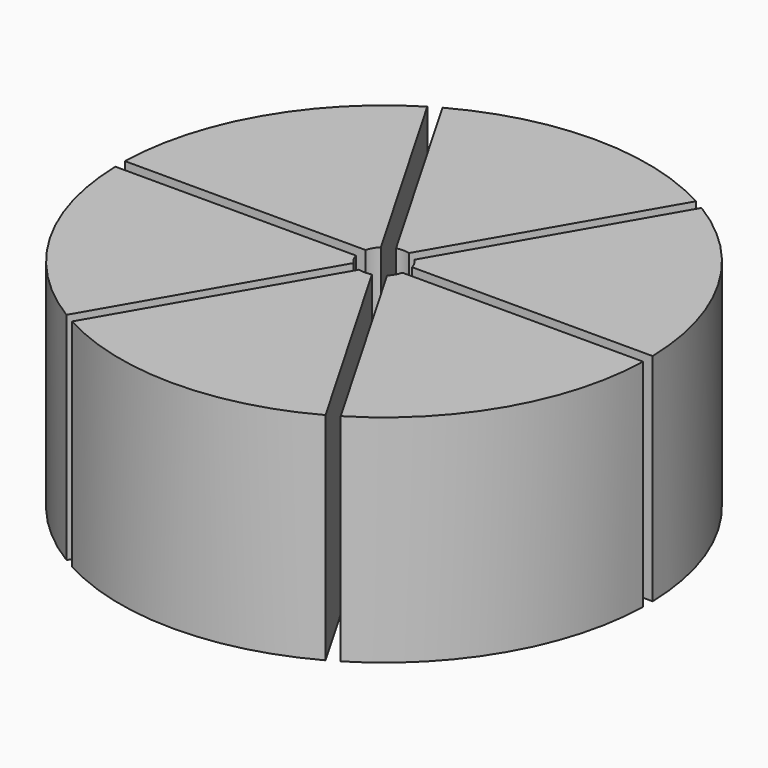
from build123d import *

# Parameters (mm, degrees)
BOX001_W          = 24
BOX001_H          = 0.5
BOX001_DEPTH      = 10
ARRAY001_COUNT    = 3
CYLINDER005_R     = 11
CYLINDER005_DEPTH = 9
CYLINDER004_R     = 12
CYLINDER004_DEPTH = 10
CYLINDER006_R     = 1
CYLINDER006_DEPTH = 10
CYLINDER003_R     = 11
CYLINDER003_DEPTH = 10


with BuildPart() as fusion004:
    # Box001 → Box001 (new body)
    with BuildSketch(Plane(origin=(-12, -0.25, 0), x_dir=(1, 0, 0), z_dir=(0, 0, 1))):
        with Locations((12, 0.25)):
            Rectangle(BOX001_W, BOX001_H)
    extrude(amount=BOX001_DEPTH)

    # Array001: Fusion004 ×3 about axis
    array001_axis = Axis((0, 0, 0), (0, 0, 1))


with BuildPart() as fusion004_1:
    add(fusion004.part)
    for i in range(1, ARRAY001_COUNT):
        add(fusion004.part.rotate(array001_axis, i * 360 / ARRAY001_COUNT))


with BuildPart() as cylinder005:
    # Cylinder005 → Cylinder005 (new body)
    with BuildSketch(Plane.XY.offset(1)):
        Circle(CYLINDER005_R)
    extrude(amount=CYLINDER005_DEPTH)


with BuildPart() as cut001:
    # Cylinder004 → Cylinder004 (new body)
    with BuildSketch(Plane.XY):
        Circle(CYLINDER004_R)
    extrude(amount=CYLINDER004_DEPTH)

    # Cut001: cut Cylinder005
    add(cylinder005.part, mode=Mode.SUBTRACT)


with BuildPart() as fusion005:
    # Cylinder006 → Cylinder006 (new body)
    with BuildSketch(Plane.XY):
        Circle(CYLINDER006_R)
    extrude(amount=CYLINDER006_DEPTH)

    # Fusion003: union Cut001
    add(cut001.part)

    # Fusion005: union Fusion004
    add(fusion004_1.part)


with BuildPart() as cut002:
    # Cylinder003 → Cylinder003 (new body)
    with BuildSketch(Plane.XY):
        Circle(CYLINDER003_R)
    extrude(amount=CYLINDER003_DEPTH)

    # Cut002: cut Fusion005
    add(fusion005.part, mode=Mode.SUBTRACT)


with BuildPart() as cut002_1:
    # Cut002 placement: moved
    add(cut002.part.moved(Location((0, 0, 1))))


solid = cut002_1.part
